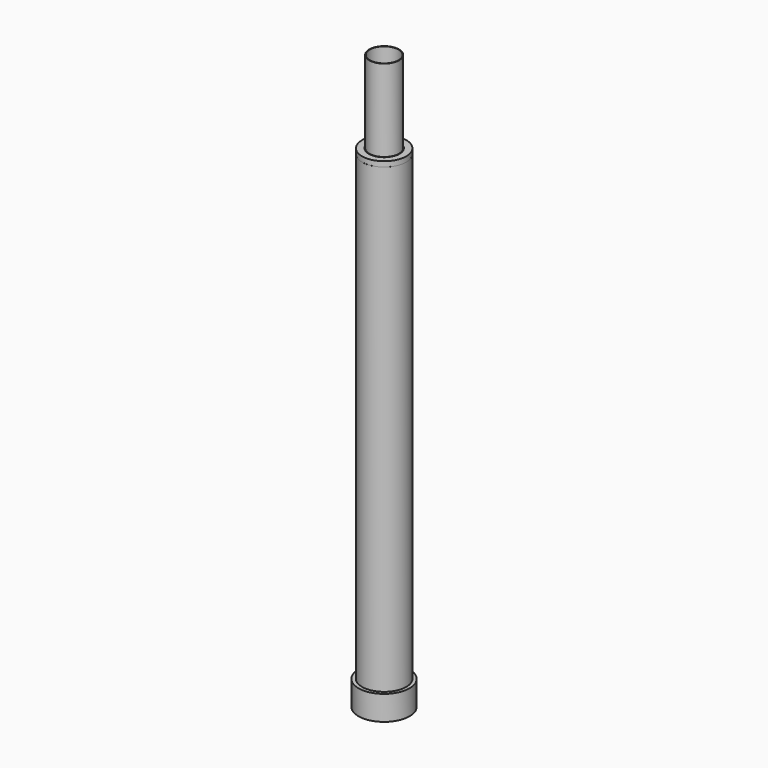
from build123d import *

# Parameters (mm, degrees)
F0_R     = 12.425
F1_DEPTH = 12
F2_R     = 10.775
F3_DEPTH = 225
F4_R     = 10.75
F4_R_2   = 7.5
F5_DEPTH = 2.5
F6_R     = 7.25
F6_R_2   = 7
F7_DEPTH = 40


with BuildPart() as f1:
    # F0 (on Top) → F1 (new body)
    with BuildSketch(Plane.XY):
        with Locations((1e-06, -0.09144)):
            Circle(F0_R)
    extrude(amount=F1_DEPTH)

    # F2 (on face) → F3 (join)
    with BuildSketch(Plane.XY.offset(12)):
        Circle(F2_R)
    extrude(amount=F3_DEPTH)

    # F4 (on face) → F5 (join)
    with BuildSketch(Plane.XY.offset(237)):
        Circle(F4_R)
        Circle(F4_R_2, mode=Mode.SUBTRACT)
    extrude(amount=F5_DEPTH)


with BuildPart() as f7:
    # F6 (on face) → F7 (new body)
    with BuildSketch(Plane.XY.offset(239.5)):
        Circle(F6_R)
        Circle(F6_R_2, mode=Mode.SUBTRACT)
    extrude(amount=F7_DEPTH)


solid = Compound([f1.part, f7.part])
